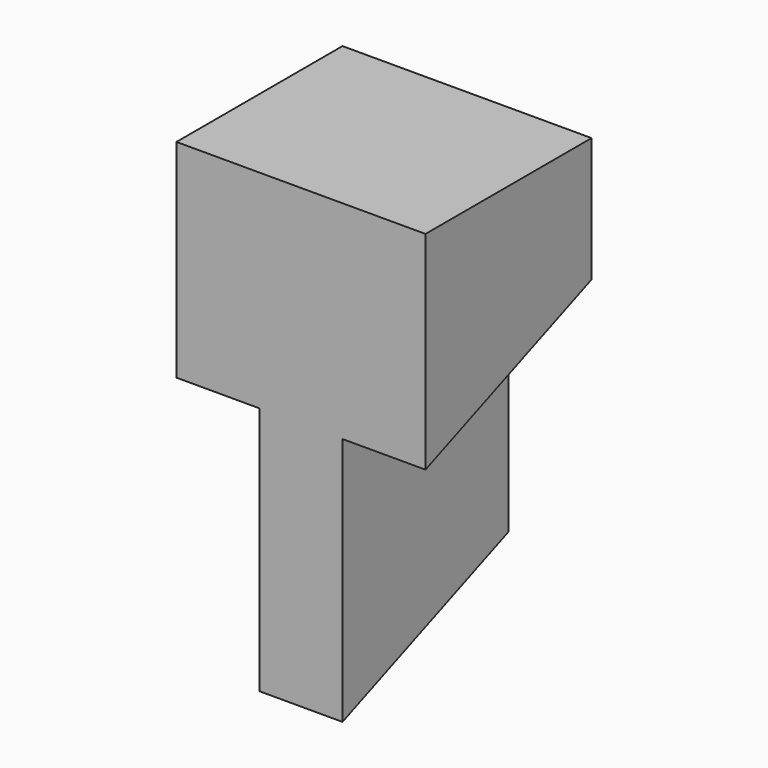
from build123d import *

# Parameters (mm, degrees)
F1_DEPTH = 31.75
F3_DEPTH = 25.4
F5_DEPTH = 12.7
F7_DEPTH = 12.7


with BuildPart() as f1:
    # F0 (on Front) → F1 (new body)
    with BuildSketch(Plane.XZ):
        Polygon((-19.170986, 59.012785), (-57.270986, 59.012785), (-57.270986, 27.262785), (-44.570986, 27.262785), (-44.570986, -10.837215), (-31.870986, -10.837215), (-31.870986, 27.262785), (-19.170986, 27.262785), align=None)
    extrude(amount=F1_DEPTH)

    # F2 (on face) → F3 (cut)
    with BuildSketch(Plane.YZ.offset(-31.870986)):
        Polygon((0, 1.862785), (-31.75, -10.837215), (0, -10.837215), align=None)
    extrude(amount=-F3_DEPTH, mode=Mode.SUBTRACT)

    # F4 (on face) → F5 (cut)
    with BuildSketch(Plane.YZ.offset(-19.170986)):
        Polygon((0, 39.962785), (-31.75, 27.262785), (0, 27.262785), align=None)
    extrude(amount=-F5_DEPTH, mode=Mode.SUBTRACT)

    # F6 (on face) → F7 (cut)
    with BuildSketch(Plane(origin=(-57.270986, 0, 0), x_dir=(0, -1, 0), z_dir=(-1, 0, 0))):
        Polygon((0, 27.262785), (31.75, 27.262785), (0, 39.962785), align=None)
    extrude(amount=-F7_DEPTH, mode=Mode.SUBTRACT)


solid = f1.part
